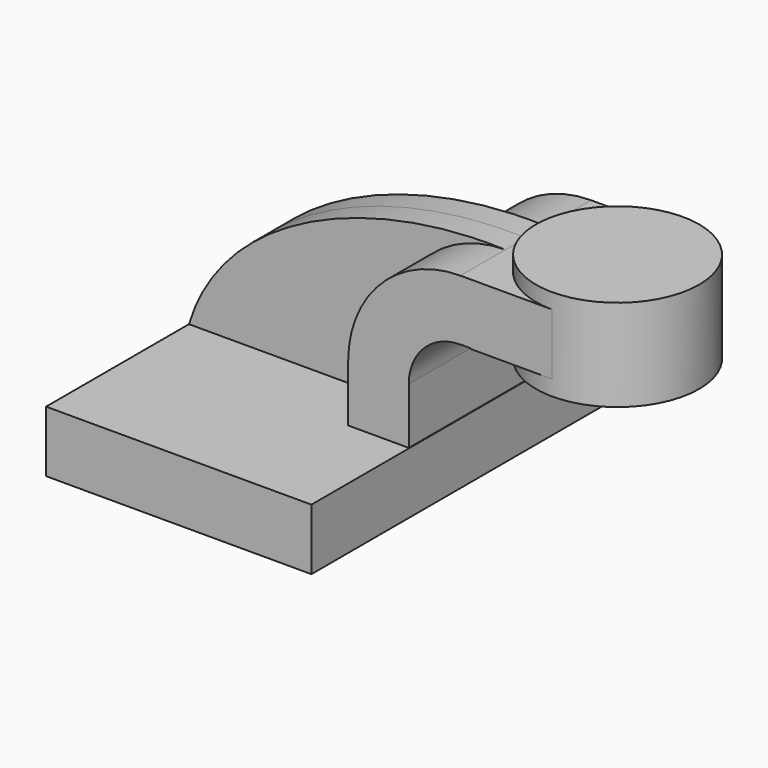
from build123d import *

# Parameters (mm, degrees)
F1_DEPTH = 63.5
F2_DEPTH = 25.4
F3_DEPTH = 7.9375


with BuildPart() as f1:
    # F0 (on Front) → F1 (new body, symmetric)
    with BuildSketch(Plane.XZ):
        Polygon((-41.275, -9.525), (41.275, -9.525), (41.275, 9.525), (41.0909965214, 9.525), (22.225, 9.525), (-41.275, 9.525), align=None)
    extrude(amount=F1_DEPTH, both=True)

    # F0 (on Front) → F2 (join, symmetric)
    with BuildSketch(Plane.XZ):
        with BuildLine():
            Line((22.225, 9.525), (41.0909965214, 9.525))
            Line((41.0909965214, 9.525), (41.0909965214, 27.0002))
            ThreePointArc((41.0909965214, 27.0002), (45.7945697412, 38.3556302588), (57.15, 43.0592034786))
            Line((57.15, 43.0592034786), (60.325, 43.0592034786))
            Line((60.325, 43.0592034786), (60.325, 61.9252))
            Line((60.325, 61.9252), (57.15, 61.9252))
            ThreePointArc((57.15, 61.9252), (32.4542956671, 51.6959043329), (22.225, 27.0002))
            Line((22.225, 27.0002), (22.225, 9.525))
        make_face()
        Polygon((85.725, 61.9252), (60.325, 61.9252), (60.325, 43.0592034786), (60.325, 42.8752), (85.725, 42.8752), align=None)
    extrude(amount=F2_DEPTH, both=True)

    # F0 (on Front) → F3 (join, symmetric)
    with BuildSketch(Plane.XZ):
        with BuildLine():
            add(Edge.make_bspline(
                [(-41.275, 9.525), (-30.462404713, 45.4226024449), (15.5969550833, 63.5012462735), (57.15, 61.9252)],
                knots=[0, 0, 0, 0, 111.5045361635, 111.5045361635, 111.5045361635, 111.5045361635], degree=3))
            Line((-41.275, 9.525), (22.225, 9.525))
            Line((22.225, 9.525), (22.225, 27.0002))
            ThreePointArc((22.225, 27.0002), (32.4542956671, 51.6959043329), (57.15, 61.9252))
        make_face()
    extrude(amount=F3_DEPTH, both=True)

    # F0 (on Front) → F4 (revolve)
    with BuildSketch(Plane.XZ):
        Polygon((85.725, 66.675), (85.725, 61.9252), (85.725, 42.8752), (85.725, 38.1), (111.125, 38.1), (111.125, 66.675), align=None)
    revolve(axis=Axis((85.725, 0, 52.3875), (0, 0, 1)))


solid = f1.part
